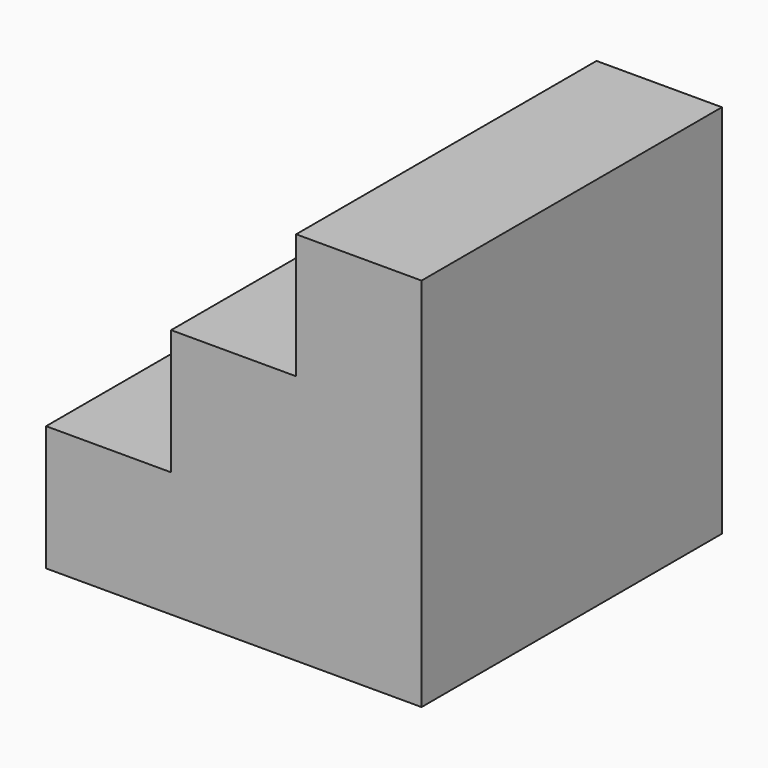
from build123d import *

# Parameters (mm, degrees)
F1_DEPTH = 25.4
F2_W     = 8.4582
F2_H     = 8.4709
F3_DEPTH = 25.4


with BuildPart() as f1:
    # F0 (on Front) → F1 (new body)
    with BuildSketch(Plane.XZ):
        Polygon((-25.4, 0), (0, 0), (0, 25.4), (-8.4836, 25.4), (-8.4836, 16.9418), (-25.4, 16.9418), align=None)
    extrude(amount=F1_DEPTH)

    # F2 (on face) → F3 (cut)
    with BuildSketch(Plane.XZ.offset(25.4)):
        with Locations((-21.1709, 12.70635)):
            Rectangle(F2_W, F2_H)
    extrude(amount=-F3_DEPTH, mode=Mode.SUBTRACT)


solid = f1.part
